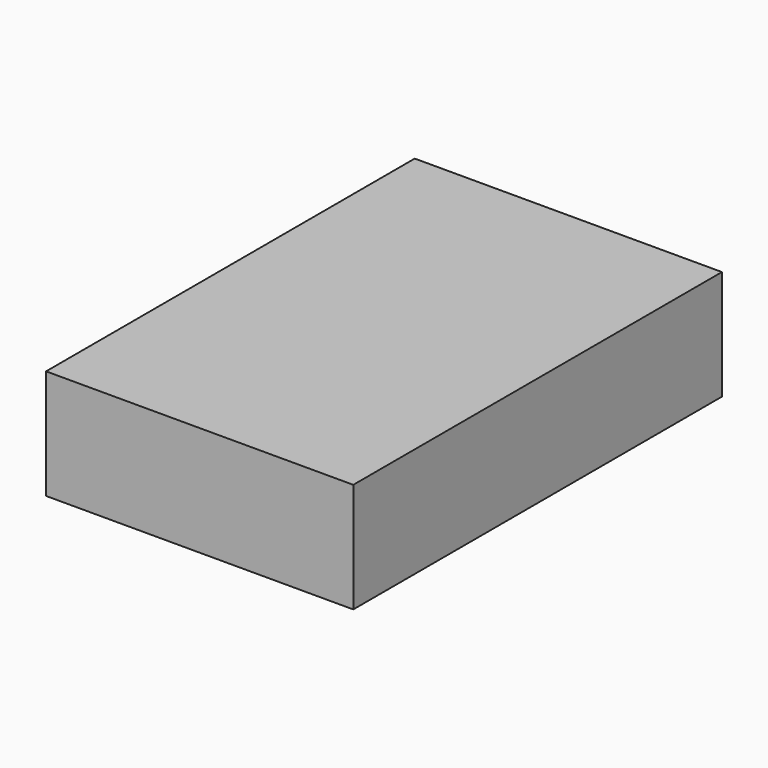
from build123d import *

# Parameters (mm, degrees)
F0_W     = 140
F0_H     = 210
F0_R     = 9.5
F1_DEPTH = 50


with BuildPart() as f1:
    # F0 (on Top) → F1 (new body)
    with BuildSketch(Plane.XY):
        Rectangle(F0_W, F0_H)
        with Locations((-53, 3)):
            Circle(F0_R, mode=Mode.SUBTRACT)
        with Locations((-53, 32)):
            Circle(F0_R, mode=Mode.SUBTRACT)
        with Locations((-28, 3)):
            Circle(F0_R, mode=Mode.SUBTRACT)
        with Locations((-28, 32)):
            Circle(F0_R, mode=Mode.SUBTRACT)
        with Locations((-53, 61)):
            Circle(F0_R, mode=Mode.SUBTRACT)
        with Locations((-53, 90)):
            Circle(F0_R, mode=Mode.SUBTRACT)
        with Locations((-28, 61)):
            Circle(F0_R, mode=Mode.SUBTRACT)
        with Locations((-28, 90)):
            Circle(F0_R, mode=Mode.SUBTRACT)
        with Locations((-53, 90)):
            Circle(F0_R)
        with Locations((-28, 90)):
            Circle(F0_R)
        with Locations((-28, 61)):
            Circle(F0_R)
        with Locations((-53, 61)):
            Circle(F0_R)
        with Locations((-53, 32)):
            Circle(F0_R)
        with Locations((-28, 32)):
            Circle(F0_R)
        with Locations((-53, 3)):
            Circle(F0_R)
        with Locations((-28, 3)):
            Circle(F0_R)
    extrude(amount=F1_DEPTH)


solid = f1.part
